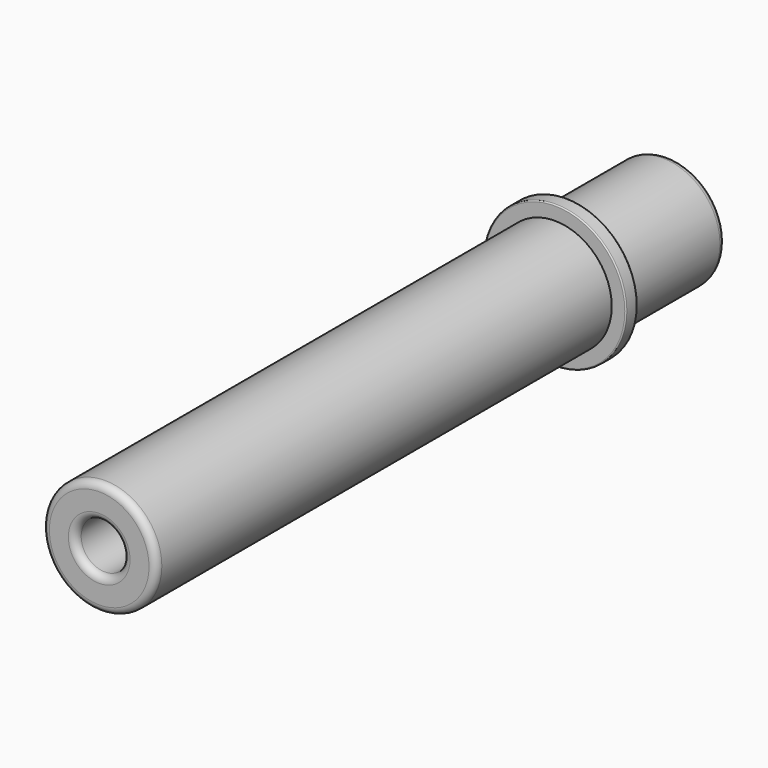
from build123d import *

# Parameters (mm, degrees)
F0_R     = 12
F0_R_2   = 5
F1_DEPTH = 150
F0_R_3   = 15
F2_DEPTH = 30
F3_DEPTH = 27
F4_R     = 0.25
F5_R     = 1.5


with BuildPart() as f1:
    # F0 (on Front) → F1 (new body)
    with BuildSketch(Plane.XZ):
        Circle(F0_R)
        Circle(F0_R_2, mode=Mode.SUBTRACT)
    extrude(amount=F1_DEPTH)

    # F0 (on Front) → F2 (join)
    with BuildSketch(Plane.XZ):
        Circle(F0_R_3)
        Circle(F0_R, mode=Mode.SUBTRACT)
    extrude(amount=F2_DEPTH)

    # F0 (on Front) → F3 (cut)
    with BuildSketch(Plane.XZ):
        Circle(F0_R_3)
        Circle(F0_R, mode=Mode.SUBTRACT)
    extrude(amount=F3_DEPTH, mode=Mode.SUBTRACT)

    # F4
    f4_edges = [f1.edges().sort_by_distance(p)[0] for p in [
        (-15, -30, 0),
        (-15, -27, 0),
    ]]
    fillet(f4_edges, radius=F4_R)

    # F5
    f5_edges = [f1.edges().sort_by_distance(p)[0] for p in [
        (-12, 0, 0),
        (-12, -150, 0),
        (-5, 0, 0),
        (-5, -150, 0),
    ]]
    fillet(f5_edges, radius=F5_R)


solid = f1.part
